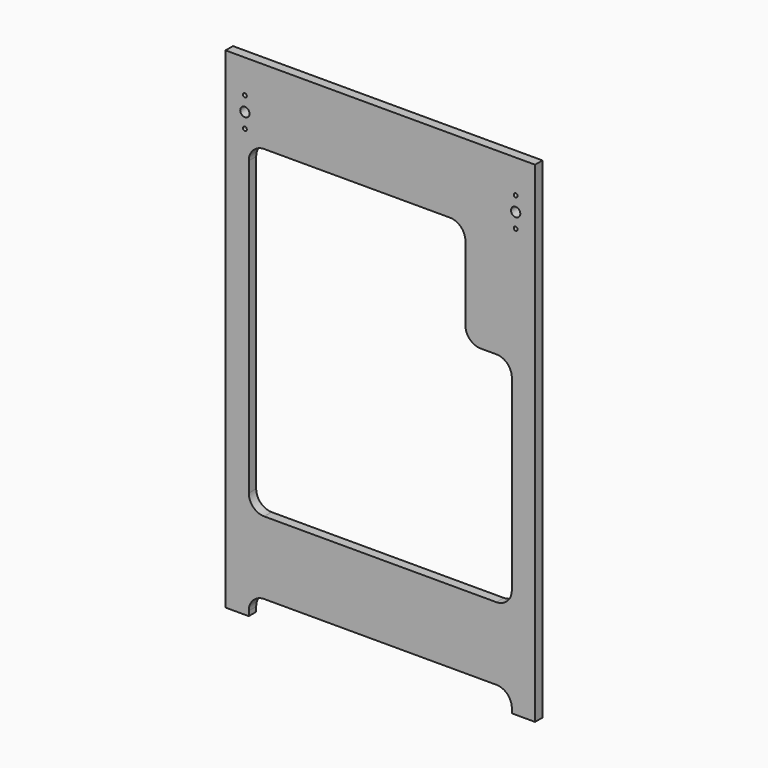
from build123d import *

# Parameters (mm, degrees)
F1_W     = 400
F1_H     = 524
F1_R     = 2.5
F1_R_2   = 6
F1_H_2   = 12
F1_H_3   = 60
F2_DEPTH = 12


with BuildPart() as f2:
    # F1 (on Front) → F2 (new body)
    with BuildSketch(Plane.XZ):
        with Locations((0, 112)):
            Rectangle(F1_W, F1_H)
        with Locations((-175, 293)):
            Circle(F1_R, mode=Mode.SUBTRACT)
        with Locations((-175, 312)):
            Circle(F1_R_2, mode=Mode.SUBTRACT)
        with Locations((-175, 331)):
            Circle(F1_R, mode=Mode.SUBTRACT)
        with BuildLine():
            Line((-150, 278), (90, 278))
            ThreePointArc((90, 278), (104.1421356237, 272.1421356237), (110, 258))
            Line((110, 258), (110, 162))
            ThreePointArc((110, 162), (115.8578643763, 147.8578643763), (130, 142))
            Line((130, 142), (150, 142))
            ThreePointArc((150, 142), (164.1421356237, 136.1421356237), (170, 122))
            Line((170, 122), (170, -120))
            ThreePointArc((170, -120), (164.1421356237, -134.1421356237), (150, -140))
            Line((150, -140), (-150, -140))
            ThreePointArc((-150, -140), (-164.1421356237, -134.1421356237), (-170, -120))
            Line((-170, -120), (-170, 258))
            ThreePointArc((-170, 258), (-164.1421356237, 272.1421356237), (-150, 278))
        make_face(mode=Mode.SUBTRACT)
        with Locations((175, 293)):
            Circle(F1_R, mode=Mode.SUBTRACT)
        with Locations((175, 312)):
            Circle(F1_R_2, mode=Mode.SUBTRACT)
        with Locations((175, 331)):
            Circle(F1_R, mode=Mode.SUBTRACT)
        with Locations((0, -156)):
            Rectangle(F1_W, F1_H_2)
        with Locations((0, -192)):
            Rectangle(F1_W, F1_H_3)
        Polygon((200, -234), (200, -222), (-200, -222), (-200, -234), (-150, -234), (150, -234), align=None)
        with BuildLine():
            Line((200, -260), (200, -234))
            Line((200, -234), (150, -234))
            ThreePointArc((150, -234), (164.1421356237, -239.8578643763), (170, -254))
            Line((170, -254), (170, -260))
            Line((170, -260), (200, -260))
        make_face()
        with BuildLine():
            Line((-150, -234), (-200, -234))
            Line((-200, -234), (-200, -260))
            Line((-200, -260), (-170, -260))
            Line((-170, -260), (-170, -254))
            ThreePointArc((-170, -254), (-164.1421356237, -239.8578643763), (-150, -234))
        make_face()
    extrude(amount=F2_DEPTH)


solid = f2.part
